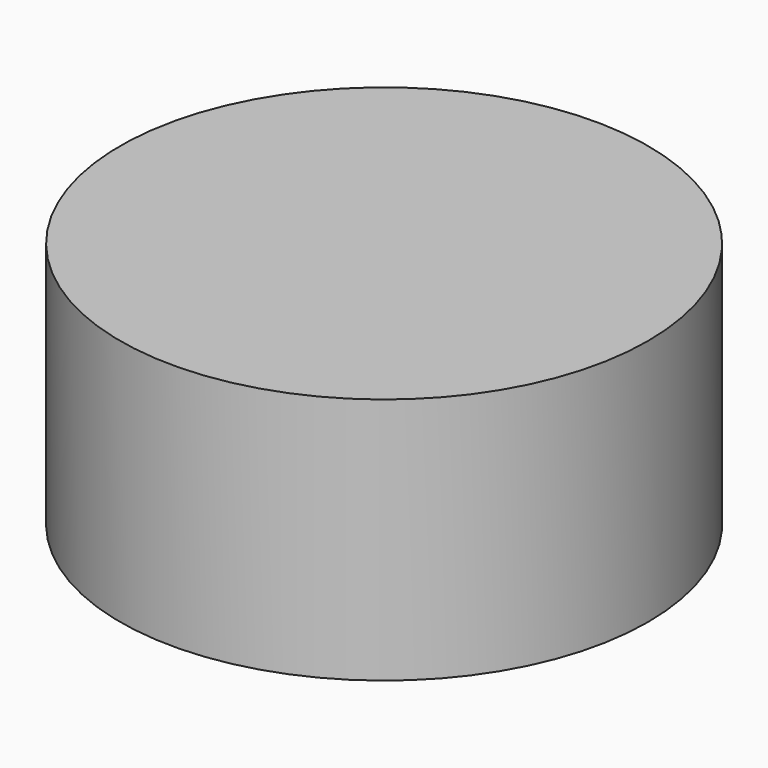
from build123d import *

# Parameters (mm, degrees)
CYLINDER_R     = 101.6
CYLINDER_DEPTH = 95.25


with BuildPart() as part:
    # Cylinder → Cylinder (new body)
    with BuildSketch(Plane.XY):
        Circle(CYLINDER_R)
    extrude(amount=CYLINDER_DEPTH)


solid = part.part
